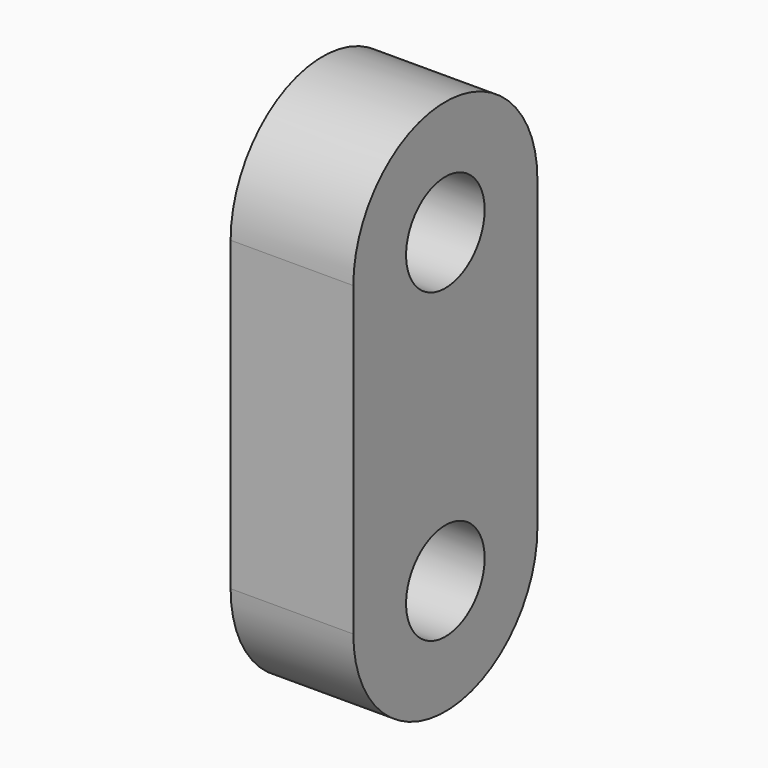
from build123d import *

# Parameters (mm, degrees)
F0_R     = 2.032
F1_DEPTH = 5.08


with BuildPart() as f1:
    # F0 (on Right) → F1 (new body)
    with BuildSketch(Plane.YZ):
        with BuildLine():
            ThreePointArc((-4.7625, 0), (0, -4.7625), (4.7625, 0))
            ThreePointArc((4.7625, 0), (0, 4.7625), (-4.7625, 0))
        make_face()
        Circle(F0_R, mode=Mode.SUBTRACT)
        with BuildLine():
            ThreePointArc((-4.7625, 0), (0, 4.7625), (4.7625, 0))
            Line((4.7625, 0), (4.7625, 12.7))
            ThreePointArc((4.7625, 12.7), (0, 7.9375), (-4.7625, 12.7))
            Line((-4.7625, 12.7), (-4.7625, 0))
        make_face()
        with BuildLine():
            ThreePointArc((-4.7625, 12.7), (0, 7.9375), (4.7625, 12.7))
            ThreePointArc((4.7625, 12.7), (0, 17.4625), (-4.7625, 12.7))
        make_face()
        with Locations((0, 12.7)):
            Circle(F0_R, mode=Mode.SUBTRACT)
    extrude(amount=F1_DEPTH)


solid = f1.part
